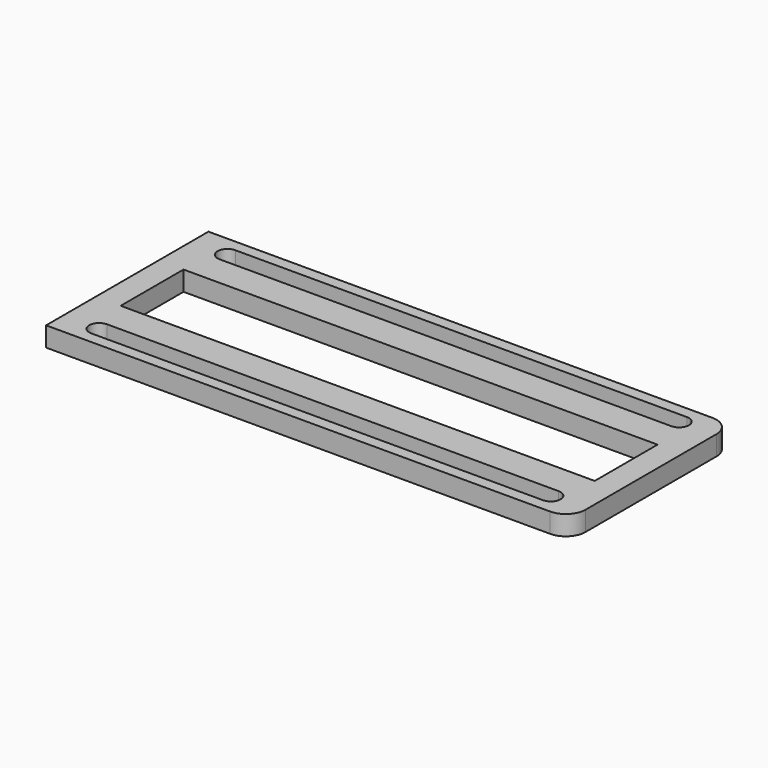
from build123d import *

# Parameters (mm, degrees)
SKETCH003_W   = 80
SKETCH003_H   = 31
SKETCH003_W_2 = 72.408426
SKETCH003_H_2 = 12
EXTRUDE_DEPTH = 3
FILLET_R      = 3


with BuildPart() as part:
    # Sketch003 → Extrude (new body)
    with BuildSketch(Plane.XY):
        Rectangle(SKETCH003_W, SKETCH003_H)
        Rectangle(SKETCH003_W_2, SKETCH003_H_2, mode=Mode.SUBTRACT)
        with BuildLine():
            ThreePointArc((-34.5, 13.75), (-36, 12.25), (-34.5, 10.75))
            Line((-34.5, 10.75), (34.5, 10.75))
            ThreePointArc((34.5, 10.75), (36, 12.25), (34.5, 13.75))
            Line((-34.5, 13.75), (34.5, 13.75))
        make_face(mode=Mode.SUBTRACT)
        with BuildLine():
            ThreePointArc((-34.5, -10.75), (-36, -12.25), (-34.5, -13.75))
            Line((-34.5, -13.75), (34.5, -13.75))
            ThreePointArc((34.5, -13.75), (36, -12.25), (34.5, -10.75))
            Line((-34.5, -10.75), (34.5, -10.75))
        make_face(mode=Mode.SUBTRACT)
    extrude(amount=EXTRUDE_DEPTH)

    # Fillet
    fillet_edges = [part.edges().sort_by_distance(p)[0] for p in [
        (40, 15.5, 1.5),
        (40, -15.5, 1.5),
    ]]
    fillet(fillet_edges, radius=FILLET_R)


solid = part.part
